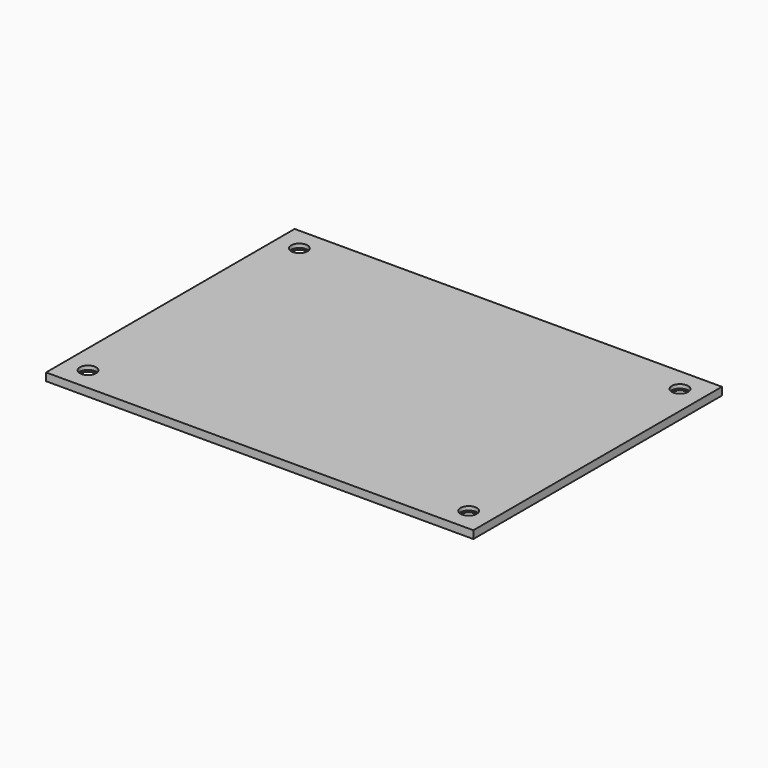
from build123d import *

# Parameters (mm, degrees)
SKETCH_W     = 110
SKETCH_H     = 80
PAD_DEPTH    = 2
SKETCH001_R  = 2.1
POCKET_DEPTH = 5
CHAMFER_SIZE = 1


with BuildPart() as part:
    # Sketch → Pad (new body)
    with BuildSketch(Plane.XY):
        Rectangle(SKETCH_W, SKETCH_H)
    extrude(amount=PAD_DEPTH)

    # Sketch001 (on Face6 of Pad) → Pocket (cut)
    with BuildSketch(Plane.XY.offset(2)):
        with Locations((49, 34)):
            Circle(SKETCH001_R)
        with Locations((-49, 34)):
            Circle(SKETCH001_R)
        with Locations((-49, -34)):
            Circle(SKETCH001_R)
        with Locations((49, -34)):
            Circle(SKETCH001_R)
    extrude(amount=-POCKET_DEPTH, mode=Mode.SUBTRACT)

    # Chamfer
    chamfer_edges = [part.edges().sort_by_distance(p)[0] for p in [
        (-51.1, -34, 0),
        (-51.1, 34, 0),
        (46.9, 34, 0),
        (46.9, -34, 0),
    ]]
    chamfer(chamfer_edges, length=CHAMFER_SIZE)


solid = part.part
